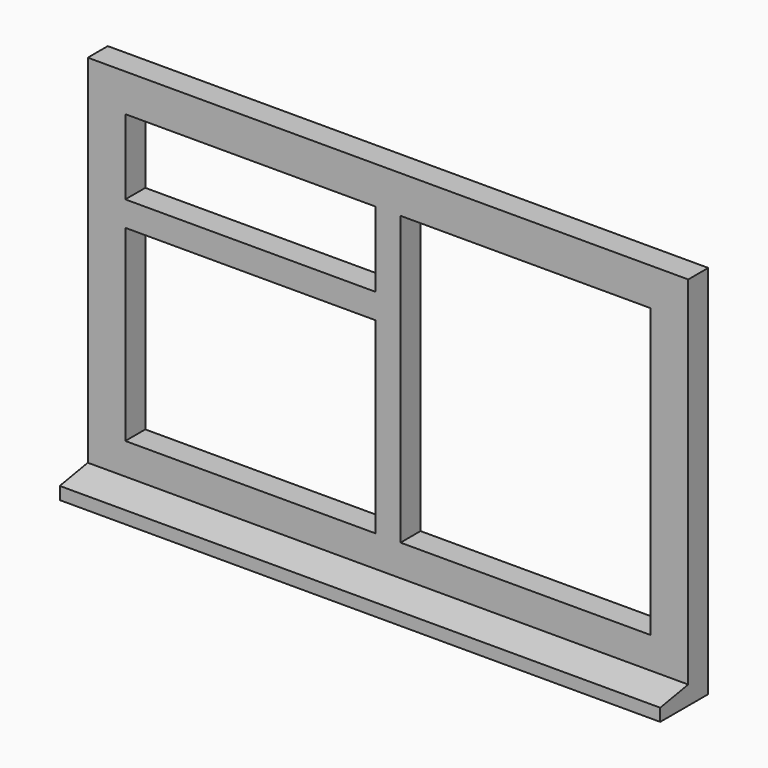
from build123d import *

# Parameters (mm, degrees)
F0_W     = 1200
F0_H     = 750
F0_W_2   = 500
F0_H_2   = 375
F0_H_3   = 150
F0_H_4   = 575
F1_DEPTH = 50
F3_DEPTH = 1200


with BuildPart() as f1:
    # F0 (on Front) → F1 (new body)
    with BuildSketch(Plane.XZ):
        with Locations((600, -375)):
            Rectangle(F0_W, F0_H)
        with Locations((325, -462.5)):
            Rectangle(F0_W_2, F0_H_2, mode=Mode.SUBTRACT)
        with Locations((325, -150)):
            Rectangle(F0_W_2, F0_H_3, mode=Mode.SUBTRACT)
        with Locations((875, -362.5)):
            Rectangle(F0_W_2, F0_H_4, mode=Mode.SUBTRACT)
    extrude(amount=-F1_DEPTH)

    # F2 (on face) → F3 (join)
    with BuildSketch(Plane.YZ.offset(1200)):
        Polygon((-70, -750), (0, -750), (0, -712.657111), (-70, -725), align=None)
    extrude(amount=-F3_DEPTH)


solid = f1.part
